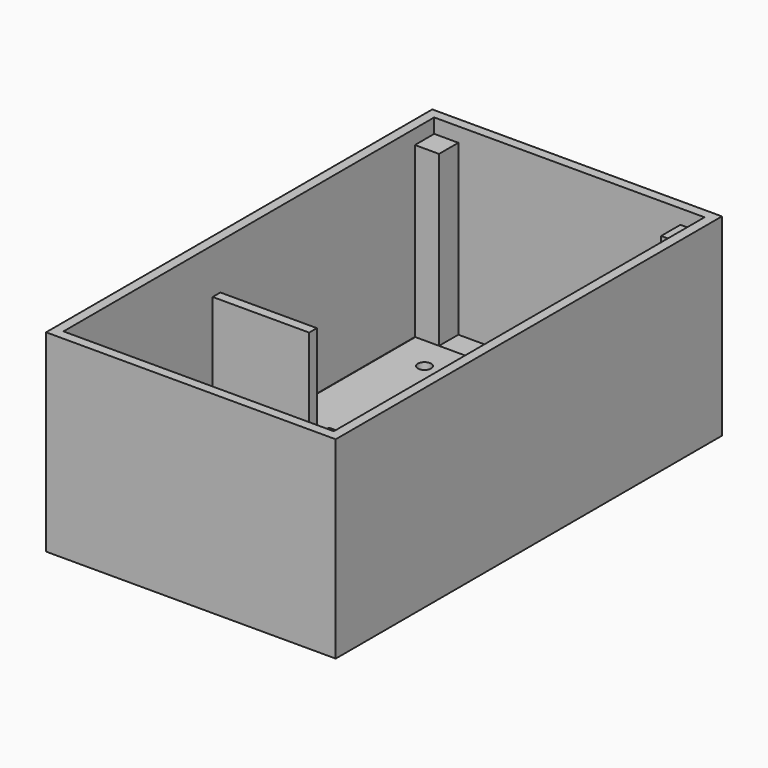
from build123d import *

# Parameters (mm, degrees)
F0_W      = 60
F0_H      = 100
F1_DEPTH  = 40
F2_T      = -2
F3_W      = 22
F3_H      = 75
F4_DEPTH  = 6
F5_R      = 1.35
F6_DEPTH  = 6
F7_W      = 20
F7_H      = 37
F8_DEPTH  = 6
F9_W      = 20
F9_H      = 2
F10_DEPTH = 25
F11_W     = 15
F11_H     = 34
F12_DEPTH = 6
F13_R     = 1.375
F14_DEPTH = 6
F15_W     = 5
F15_H     = 5
F16_DEPTH = 35


with BuildPart() as f1:
    # F0 (on Top) → F1 (new body)
    with BuildSketch(Plane.XY):
        Rectangle(F0_W, F0_H)
    extrude(amount=F1_DEPTH)

    # F2
    f2_openings = [f1.faces().sort_by_distance(p)[0] for p in [
        (0, 0, 40),
    ]]
    offset(amount=F2_T, openings=f2_openings)

    # F3 (on face) → F4 (join)
    with BuildSketch(Plane.XY.offset(2)):
        with Locations((14, 0)):
            Rectangle(F3_W, F3_H)
    extrude(amount=F4_DEPTH)

    # F5 (on face) → F6 (cut)
    with BuildSketch(Plane.XY.offset(8)):
        with Locations((14, 0)):
            Circle(F5_R)
    extrude(amount=-F6_DEPTH, mode=Mode.SUBTRACT)

    # F7 (on face) → F8 (join)
    with BuildSketch(Plane.XY.offset(2)):
        with Locations((-15.1, -29.5)):
            Rectangle(F7_W, F7_H)
    extrude(amount=F8_DEPTH)

    # F9 (on face) → F10 (join)
    with BuildSketch(Plane.XY.offset(8)):
        with Locations((-15.1, -12)):
            Rectangle(F9_W, F9_H)
    extrude(amount=F10_DEPTH)

    # F11 (on face) → F12 (join)
    with BuildSketch(Plane.XY.offset(2)):
        with Locations((-13.210342, 17)):
            Rectangle(F11_W, F11_H)
    extrude(amount=F12_DEPTH)

    # F13 (on face) → F14 (cut)
    with BuildSketch(Plane.XY.offset(8)):
        with Locations((-13.210342, 27)):
            Circle(F13_R)
    extrude(amount=-F14_DEPTH, mode=Mode.SUBTRACT)

    # F15 (on face) → F16 (join)
    with BuildSketch(Plane.XY.offset(2)):
        with Locations((-25.5, 45.5)):
            Rectangle(F15_W, F15_H)
        with Locations((25.5, 45.5)):
            Rectangle(F15_W, F15_H)
        with Locations((25.5, -45.5)):
            Rectangle(F15_W, F15_H)
    extrude(amount=F16_DEPTH)


solid = f1.part
